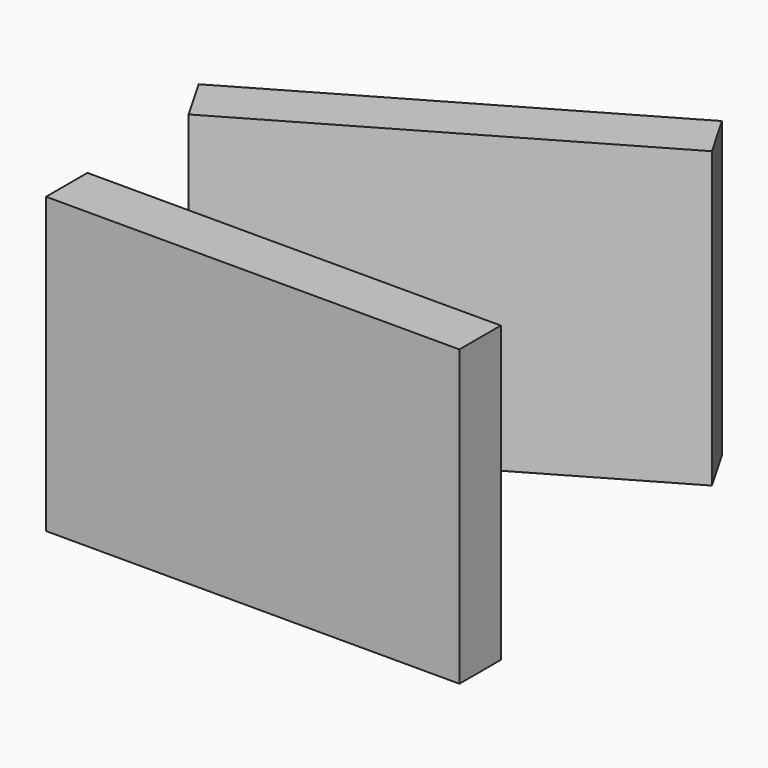
from build123d import *

# Parameters (mm, degrees)
F0_W     = 58.9191652834
F0_H     = 41.9575846754
F1_DEPTH = 7.366
F3_ANGLE = -30


with BuildPart() as f1:
    # F0 (on Front) → F1 (new body)
    with BuildSketch(Plane.XZ):
        with Locations((-8.7783578783, 26.9302253146)):
            Rectangle(F0_W, F0_H)
    extrude(amount=F1_DEPTH)


with BuildPart() as f2_1:
    # F2: copy of F1
    add(f1.part.moved(Location((0, 25.4, 0))))


with BuildPart() as f2_1_1:
    # F3: moved
    add(f2_1.part.rotate(Axis((-38.23794052, 18.034, 26.9302253146), (0, 0, -1)), F3_ANGLE))


solid = Compound([f1.part, f2_1_1.part])
